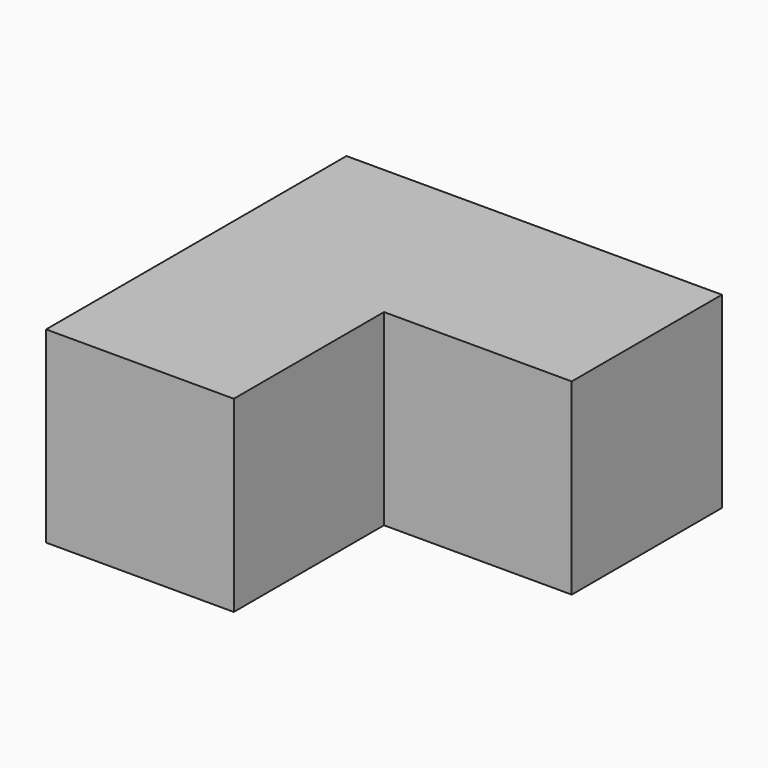
from build123d import *

# Parameters (mm, degrees)
F0_W     = 19.05
F0_H     = 19.05
F1_DEPTH = 19.05
F2_W     = 19.05
F2_H     = 19.05
F3_DEPTH = 19.05
F4_W     = 19.05
F4_H     = 19.05
F5_DEPTH = 19.05


with BuildPart() as f1:
    # F0 (on Top) → F1 (new body)
    with BuildSketch(Plane.XY):
        with Locations((9.525, -9.525)):
            Rectangle(F0_W, F0_H)
    extrude(amount=F1_DEPTH)

    # F2 (on face) → F3 (join)
    with BuildSketch(Plane.XZ.offset(19.05)):
        with Locations((9.525, 9.525)):
            Rectangle(F2_W, F2_H)
    extrude(amount=F3_DEPTH)

    # F4 (on face) → F5 (join)
    with BuildSketch(Plane.YZ.offset(19.05)):
        with Locations((-9.525, 9.525)):
            Rectangle(F4_W, F4_H)
    extrude(amount=F5_DEPTH)


solid = f1.part
